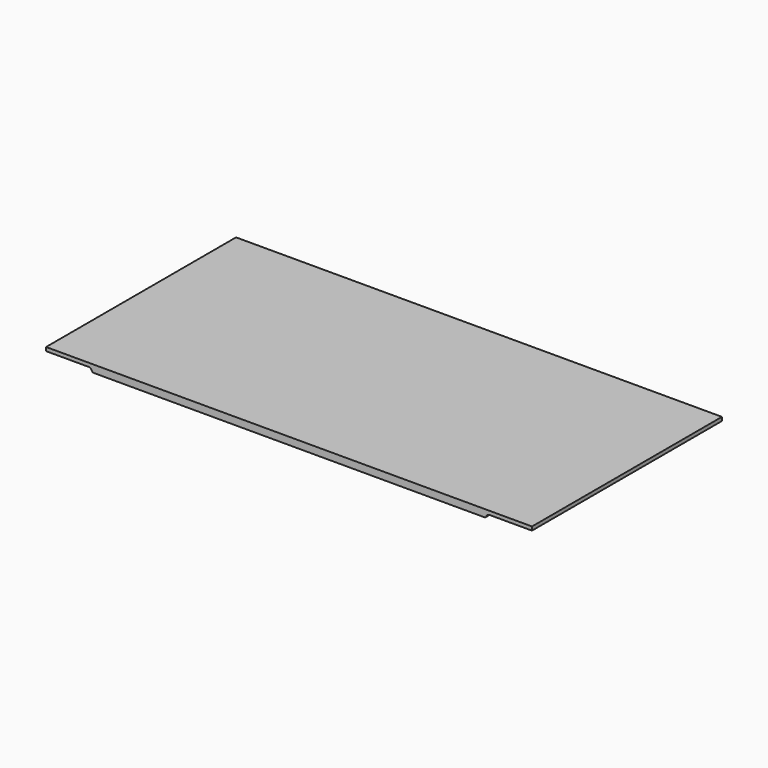
from build123d import *

# Parameters (mm, degrees)
F0_W     = 838.2
F0_H     = 409.575
F1_DEPTH = 12.7
F7_DEPTH = 6.35


with BuildPart() as f1:
    # F0 (on Top) → F1 (new body)
    with BuildSketch(Plane.XY):
        Rectangle(F0_W, F0_H)
    extrude(amount=F1_DEPTH)

    # F4: sweep along a path in F2
    with BuildLine(Plane(origin=(0, 0, 0), x_dir=(1, 0, 0), z_dir=(0, 0, -1))) as f4_path:
        Line((339.725, 204.7875), (339.725, -89.8525))
        ThreePointArc((339.725, -89.8525), (321.8702293811, -132.9577293811), (278.765, -150.8125))
        Line((278.765, -150.8125), (-278.765, -150.8125))
    # F3 (on face) → F4 (sweep, cut)
    with BuildSketch(Plane.XZ.offset(204.7875)):
        with BuildLine():
            Line((419.1, 0), (419.1, 6.35))
            Line((419.1, 6.35), (346.075, 6.35))
            ThreePointArc((346.075, 6.35), (342.4088257906, 5.1847532889), (340.088162586, 2.1166666667))
            ThreePointArc((340.088162586, 2.1166666667), (338.9278309836, 0.5826233556), (337.0947438789, 0))
            Line((337.0947438789, 0), (419.1, 0))
        make_face()
        Polygon((419.1, -8.3515942097), (419.1, 0), (337.0947438789, 0), (334.0992927551, 0), (334.0992927551, -8.3515942097), align=None)
    sweep(path=f4_path.line, mode=Mode.SUBTRACT)

    # F5: sweep along a path in F2
    with BuildLine(Plane(origin=(0, 0, 0), x_dir=(1, 0, 0), z_dir=(0, 0, -1))) as f5_path:
        Line((-339.725, 204.7875), (-339.725, -89.8525))
        ThreePointArc((-339.725, -89.8525), (-321.8702293811, -132.9577293811), (-278.765, -150.8125))
    # F3 (on face) → F5 (sweep, cut)
    with BuildSketch(Plane.XZ.offset(204.7875)):
        Polygon((-334.0992927551, -8.3515942097), (-334.0992927551, 0), (-337.0947438789, 0), (-419.1, 0), (-419.1, -8.3515942097), align=None)
        with BuildLine():
            Line((-346.075, 6.35), (-419.1, 6.35))
            Line((-419.1, 6.35), (-419.1, 0))
            Line((-419.1, 0), (-337.0947438789, 0))
            ThreePointArc((-337.0947438789, 0), (-338.9278309836, 0.5826233556), (-340.088162586, 2.1166666667))
            ThreePointArc((-340.088162586, 2.1166666667), (-342.4088257906, 5.1847532889), (-346.075, 6.35))
        make_face()
    sweep(path=f5_path.line, mode=Mode.SUBTRACT)

    # F6 (on face) → F7 (cut)
    with BuildSketch(Plane(origin=(0, 0, 0), x_dir=(1, 0, 0), z_dir=(0, 0, -1))):
        Polygon((-393.2344317436, -48.8721951842), (-452.7488350868, -48.8721951842), (-471.2188243866, -238.360658288), (-328.9314508438, -230.1517724991), align=None)
        Polygon((437.9153549671, 9.2740878463), (311.3617002964, -234.2562228441), (450.2286911011, -257.5147151947), align=None)
    extrude(amount=-F7_DEPTH, mode=Mode.SUBTRACT)


solid = f1.part
